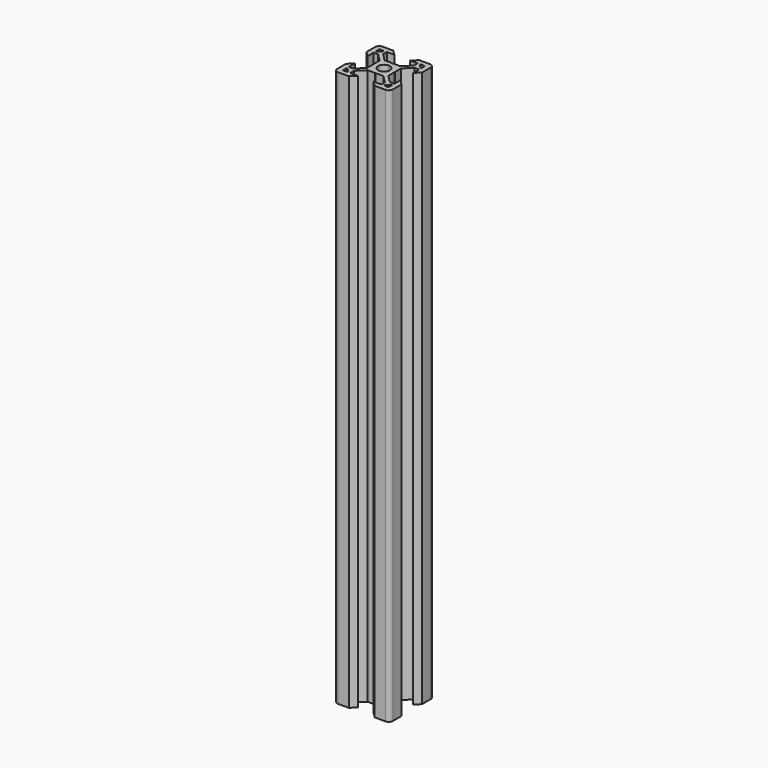
from build123d import *

# Parameters (mm, degrees)
F1_DEPTH = 200


with BuildPart() as f1:
    # F0 (on Top) → F1 (new body)
    with BuildSketch(Plane.XY):
        with BuildLine():
            Line((0, -3.729949), (0, -2.1))
            ThreePointArc((0, -2.1), (-1.484924, -1.484924), (-2.1, 0))
            Line((-2.1, 0), (-3.729949, 0))
            ThreePointArc((-3.729949, 0), (-3.759239, -0.070711), (-3.829949, -0.1))
            Line((-3.829949, -0.1), (-3.829949, -2.84))
            Line((-3.829949, -2.84), (-6.56, -5.570051))
            Line((-6.56, -5.570051), (-8.2, -5.570051))
            Line((-8.2, -5.570051), (-8.2, -2.84))
            Line((-8.2, -2.84), (-10, -4.64))
            Line((-10, -4.64), (-10, -8.5))
            ThreePointArc((-10, -8.5), (-9.56066, -9.56066), (-8.5, -10))
            Line((-8.5, -10), (-4.64, -10))
            Line((-4.64, -10), (-2.84, -8.2))
            Line((-2.84, -8.2), (-5.570051, -8.2))
            Line((-5.570051, -8.2), (-5.570051, -6.56))
            Line((-5.570051, -6.56), (-2.84, -3.829949))
            Line((-2.84, -3.829949), (-0.1, -3.829949))
            ThreePointArc((-0.1, -3.829949), (-0.070711, -3.759239), (0, -3.729949))
        make_face()
        Polygon((-7.780051, -6.640051), (-6.640051, -7.780051), (-6.640051, -8.2), (-8.2, -8.2), (-8.2, -6.640051), align=None, mode=Mode.SUBTRACT)
        with BuildLine():
            ThreePointArc((-2.1, 0), (-1.484924, 1.484924), (0, 2.1))
            Line((0, 2.1), (0, 3.729949))
            ThreePointArc((0, 3.729949), (-0.070711, 3.759239), (-0.1, 3.829949))
            Line((-0.1, 3.829949), (-2.84, 3.829949))
            Line((-2.84, 3.829949), (-5.570051, 6.56))
            Line((-5.570051, 6.56), (-5.570051, 8.2))
            Line((-5.570051, 8.2), (-2.84, 8.2))
            Line((-2.84, 8.2), (-4.64, 10))
            Line((-4.64, 10), (-8.5, 10))
            ThreePointArc((-8.5, 10), (-9.56066, 9.56066), (-10, 8.5))
            Line((-10, 8.5), (-10, 4.64))
            Line((-10, 4.64), (-8.2, 2.84))
            Line((-8.2, 2.84), (-8.2, 5.570051))
            Line((-8.2, 5.570051), (-6.56, 5.570051))
            Line((-6.56, 5.570051), (-3.829949, 2.84))
            Line((-3.829949, 2.84), (-3.829949, 0.1))
            ThreePointArc((-3.829949, 0.1), (-3.759239, 0.070711), (-3.729949, 0))
            Line((-3.729949, 0), (-2.1, 0))
        make_face()
        Polygon((-6.640051, 7.780051), (-7.780051, 6.640051), (-8.2, 6.640051), (-8.2, 8.2), (-6.640051, 8.2), align=None, mode=Mode.SUBTRACT)
        with BuildLine():
            Line((3.729949, 0), (2.1, 0))
            ThreePointArc((2.1, 0), (1.484924, -1.484924), (0, -2.1))
            Line((0, -2.1), (0, -3.729949))
            ThreePointArc((0, -3.729949), (0.070711, -3.759239), (0.1, -3.829949))
            Line((0.1, -3.829949), (2.84, -3.829949))
            Line((2.84, -3.829949), (5.570051, -6.56))
            Line((5.570051, -6.56), (5.570051, -8.2))
            Line((5.570051, -8.2), (2.84, -8.2))
            Line((2.84, -8.2), (4.64, -10))
            Line((4.64, -10), (8.5, -10))
            ThreePointArc((8.5, -10), (9.56066, -9.56066), (10, -8.5))
            Line((10, -8.5), (10, -4.64))
            Line((10, -4.64), (8.2, -2.84))
            Line((8.2, -2.84), (8.2, -5.570051))
            Line((8.2, -5.570051), (6.56, -5.570051))
            Line((6.56, -5.570051), (3.829949, -2.84))
            Line((3.829949, -2.84), (3.829949, -0.1))
            ThreePointArc((3.829949, -0.1), (3.759239, -0.070711), (3.729949, 0))
        make_face()
        Polygon((6.640051, -7.780051), (7.780051, -6.640051), (8.2, -6.640051), (8.2, -8.2), (6.640051, -8.2), align=None, mode=Mode.SUBTRACT)
        with BuildLine():
            ThreePointArc((0, 2.1), (1.484924, 1.484924), (2.1, 0))
            Line((2.1, 0), (3.729949, 0))
            ThreePointArc((3.729949, 0), (3.759239, 0.070711), (3.829949, 0.1))
            Line((3.829949, 0.1), (3.829949, 2.84))
            Line((3.829949, 2.84), (6.56, 5.570051))
            Line((6.56, 5.570051), (8.2, 5.570051))
            Line((8.2, 5.570051), (8.2, 2.84))
            Line((8.2, 2.84), (10, 4.64))
            Line((10, 4.64), (10, 8.5))
            ThreePointArc((10, 8.5), (9.56066, 9.56066), (8.5, 10))
            Line((8.5, 10), (4.64, 10))
            Line((4.64, 10), (2.84, 8.2))
            Line((2.84, 8.2), (5.570051, 8.2))
            Line((5.570051, 8.2), (5.570051, 6.56))
            Line((5.570051, 6.56), (2.84, 3.829949))
            Line((2.84, 3.829949), (0.1, 3.829949))
            ThreePointArc((0.1, 3.829949), (0.070711, 3.759239), (0, 3.729949))
            Line((0, 3.729949), (0, 2.1))
        make_face()
        Polygon((6.640051, 8.2), (8.2, 8.2), (8.2, 6.640051), (7.780051, 6.640051), (6.640051, 7.780051), align=None, mode=Mode.SUBTRACT)
    extrude(amount=F1_DEPTH)


solid = f1.part
